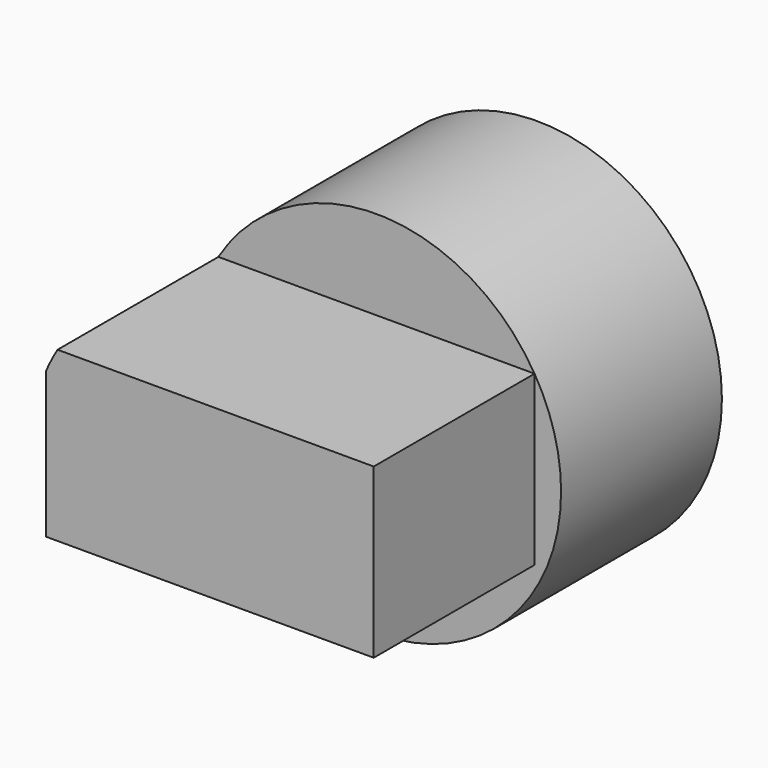
from build123d import *

# Parameters (mm, degrees)
F0_R     = 23.324871
F1_DEPTH = 25.4
F3_DEPTH = 25.4


with BuildPart() as f1:
    # F0 (on Front) → F1 (new body)
    with BuildSketch(Plane.XZ):
        Circle(F0_R)
    extrude(amount=F1_DEPTH)

    # F2 (on face) → F3 (join)
    with BuildSketch(Plane.XZ.offset(25.4)):
        with BuildLine():
            Line((-21.422089, 9.227335), (-21.422089, -9.227335))
            Line((-21.422089, -9.227335), (19.974271, -9.227335))
            Line((19.974271, -9.227335), (19.974271, 12.044837))
            Line((19.974271, 12.044837), (-19.974271, 12.044837))
            ThreePointArc((-19.974271, 12.044837), (-20.746065, 10.660692), (-21.422089, 9.227335))
        make_face()
    extrude(amount=F3_DEPTH)


solid = f1.part
